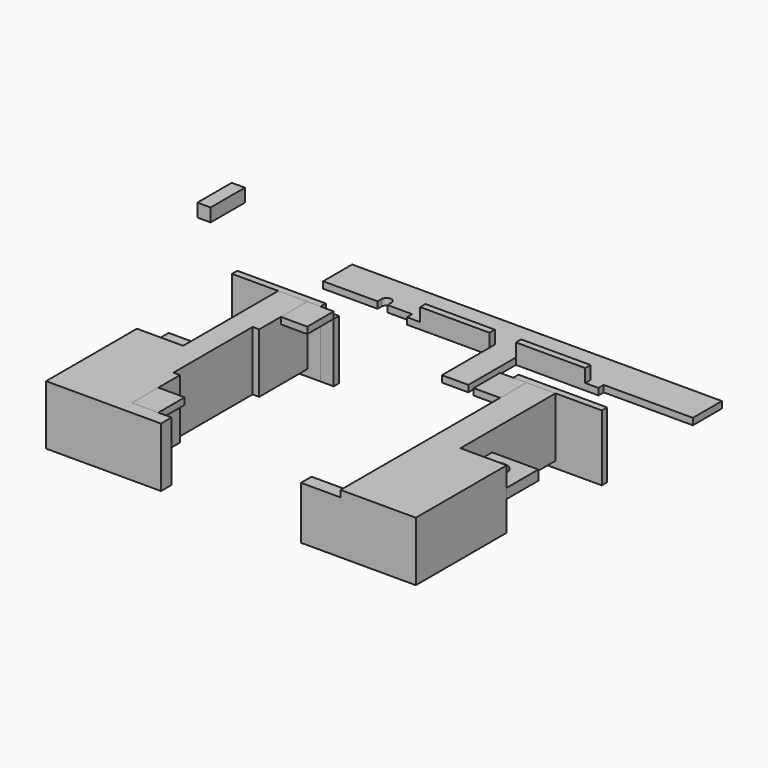
from build123d import *

# Parameters (mm, degrees)
F1_DEPTH      = 9
F0_W          = 4.4
F0_H          = 2
F2_START      = 8
F2_DEPTH      = 1
F0_W_2        = 4
F0_H_2        = 5
F3_START      = 4.5
F0_R          = 1.6
F3_DEPTH      = 1.5
F0_W_3        = 7
F0_H_3        = 6
F4_DEPTH      = 9
F4_DEPTH_BACK = 1
F0_W_4        = 2
F0_H_4        = 1
F5_DEPTH      = 8
F5_DEPTH_BACK = 1
F6_W          = 2
F6_H          = 1
F7_DEPTH      = 1
F6_W_2        = 10.5
F8_DEPTH      = 3
F9_W          = 2
F9_H          = 6.5
F10_DEPTH     = 2
F0_W_5        = 6
F11_DEPTH     = 8


with BuildPart() as f1:
    # F0 (on Top) → F1 (new body)
    with BuildSketch(Plane.XY):
        Polygon((-21, 3), (-21, 0), (-21, -3), (-21, -18.2), (-16.6, -18.2), (-16.6, -13.2), (-16.6, -9.1), (-17.6, -9.1), (-17.6, 5.9), (-16.6, 5.9), (-16.6, 10), (-16.6, 15), (-21, 15), align=None)
        Polygon((-16.6, -18.2), (-21, -18.2), (-21, -20.2), (-10.6, -20.2), (-10.6, -18.2), (-12.6, -18.2), align=None)
        Polygon((-21, -3), (-24, -3), (-28, -3), (-28, -20.2), (-21, -20.2), (-21, -18.2), align=None)
    extrude(amount=F1_DEPTH)


with BuildPart() as f1b:
    # F0 (on Top) → F1, piece 2 (new body)
    with BuildSketch(Plane.XY):
        Polygon((21, -3), (21, 3), (21, 15), (16.6, 15), (16.6, 10), (16.6, -13.2), (16.6, -18.2), (21, -18.2), align=None)
        Polygon((28, -20.2), (28, -3), (21, -3), (21, -18.2), (21, -20.2), align=None)
        with Locations((18.8, -19.2)):
            Rectangle(F0_W, F0_H)
    extrude(amount=F1_DEPTH)

    # F0 (on Top) → F11 (join)
    with BuildSketch(Plane.XY):
        with Locations((13.6, -19.2)):
            Rectangle(F0_W_5, F0_H)
    extrude(amount=F11_DEPTH)


with BuildPart() as f2:
    # F0 (on Top) → F2 (new body)
    with BuildSketch(Plane.XY.offset(F2_START)):
        Polygon((-14.6, 15), (-16.6, 15), (-16.6, 10), (-12.6, 10), (-12.6, 15), align=None)
    extrude(amount=F2_DEPTH)


with BuildPart() as f2b:
    # F0 (on Top) → F2, piece 2 (new body)
    with BuildSketch(Plane.XY.offset(F2_START)):
        with Locations((-14.6, -15.7)):
            Rectangle(F0_W_2, F0_H_2)
    extrude(amount=F2_DEPTH)


with BuildPart() as f2c:
    # F0 (on Top) → F2, piece 3 (new body)
    with BuildSketch(Plane.XY.offset(F2_START)):
        Polygon((16.6, 10), (16.6, 15), (14.6, 15), (12.6, 15), (12.6, 10), align=None)
    extrude(amount=F2_DEPTH)


with BuildPart() as f3:
    # F0 (on Top) → F3 (new body)
    with BuildSketch(Plane.XY.offset(F3_START)):
        with BuildLine():
            ThreePointArc((-24, -3), (-27, 0), (-24, 3))
            Line((-24, 3), (-28, 3))
            Line((-28, 3), (-28, -3))
            Line((-28, -3), (-24, -3))
        make_face()
        with BuildLine():
            ThreePointArc((-24, -3), (-21.8786796564, -2.1213203436), (-21, 0))
            ThreePointArc((-21, 0), (-21.8786796564, 2.1213203436), (-24, 3))
            ThreePointArc((-24, 3), (-27, 0), (-24, -3))
        make_face()
        with Locations((-24, 0)):
            Circle(F0_R, mode=Mode.SUBTRACT)
        with BuildLine():
            ThreePointArc((-24, 3), (-21.8786796564, 2.1213203436), (-21, 0))
            Line((-21, 0), (-21, 3))
            Line((-21, 3), (-24, 3))
        make_face()
        with BuildLine():
            Line((-21, -3), (-21, 0))
            ThreePointArc((-21, 0), (-21.8786796564, -2.1213203436), (-24, -3))
            Line((-24, -3), (-21, -3))
        make_face()
    extrude(amount=F3_DEPTH)


with BuildPart() as f3b:
    # F0 (on Top) → F3, piece 2 (new body)
    with BuildSketch(Plane.XY.offset(F3_START)):
        with Locations((24.5, 0)):
            Rectangle(F0_W_3, F0_H_3)
        with Locations((24, 0)):
            Circle(F0_R, mode=Mode.SUBTRACT)
    extrude(amount=F3_DEPTH)


with BuildPart() as f4:
    # F0 (on Top) → F4 (new body, two sides)
    with BuildSketch(Plane.XY) as f4_sk:
        Polygon((-28, 15), (-21, 15), (-16.6, 15), (-14.6, 15), (-14.6, 16), (-28, 16), align=None)
    extrude(amount=F4_DEPTH)
    extrude(f4_sk.sketch, amount=-F4_DEPTH_BACK)


with BuildPart() as f4b:
    # F0 (on Top) → F4, piece 2 (new body, two sides)
    with BuildSketch(Plane.XY) as f4_2_sk:
        Polygon((16.6, 15), (21, 15), (28, 15), (28, 16), (14.6, 16), (14.6, 15), align=None)
    extrude(amount=F4_DEPTH)
    extrude(f4_2_sk.sketch, amount=-F4_DEPTH_BACK)


with BuildPart() as f5:
    # F0 (on Top) → F5 (new body, two sides)
    with BuildSketch(Plane.XY) as f5_sk:
        with Locations((-13.6, 15.5)):
            Rectangle(F0_W_4, F0_H_4)
    extrude(amount=F5_DEPTH)
    extrude(f5_sk.sketch, amount=-F5_DEPTH_BACK)


with BuildPart() as f5b:
    # F0 (on Top) → F5, piece 2 (new body, two sides)
    with BuildSketch(Plane.XY) as f5_2_sk:
        with Locations((13.6, 15.5)):
            Rectangle(F0_W_4, F0_H_4)
    extrude(amount=F5_DEPTH)
    extrude(f5_2_sk.sketch, amount=-F5_DEPTH_BACK)


with BuildPart() as f7:
    # F6 (on Top) → F7 (new body)
    with BuildSketch(Plane.XY):
        with BuildLine():
            Line((-28, 37.75), (-28, 32.25))
            Line((-28, 32.25), (-19.75, 32.25))
            Line((-19.75, 32.25), (-19.75, 33))
            ThreePointArc((-19.75, 33), (-19, 33.75), (-18.25, 33))
            Line((-18.25, 33), (-18.25, 32.25))
            Line((-18.25, 32.25), (-14.5, 32.25))
            Line((-14.5, 32.25), (-12.5, 32.25))
            Line((-12.5, 32.25), (-2, 32.25))
            Line((-2, 32.25), (2, 32.25))
            Line((2, 32.25), (12.5, 32.25))
            Line((12.5, 32.25), (14.5, 32.25))
            Line((14.5, 32.25), (28, 32.25))
            Line((28, 32.25), (28, 37.75))
            Line((28, 37.75), (-28, 37.75))
        make_face()
        with Locations((-13.5, 31.75)):
            Rectangle(F6_W, F6_H)
        with Locations((13.5, 31.75)):
            Rectangle(F6_W, F6_H)
        Polygon((2, 31.25), (2, 32.25), (-2, 32.25), (-2, 31.25), (-2, 22.25), (2, 22.25), align=None)
    extrude(amount=F7_DEPTH)

    # F6 (on Top) → F8 (join)
    with BuildSketch(Plane.XY):
        with Locations((-7.25, 31.75)):
            Rectangle(F6_W_2, F6_H)
        with Locations((7.25, 31.75)):
            Rectangle(F6_W_2, F6_H)
    extrude(amount=F8_DEPTH)


with BuildPart() as f10:
    # F9 (on Top) → F10 (new body)
    with BuildSketch(Plane.XY):
        with Locations((-49.9955862761, 40.4360860044)):
            Rectangle(F9_W, F9_H)
    extrude(amount=F10_DEPTH)


solid = Compound([f1.part, f1b.part, f2.part, f2b.part, f2c.part, f3.part, f3b.part, f4.part, f4b.part, f5.part, f5b.part, f7.part, f10.part])
